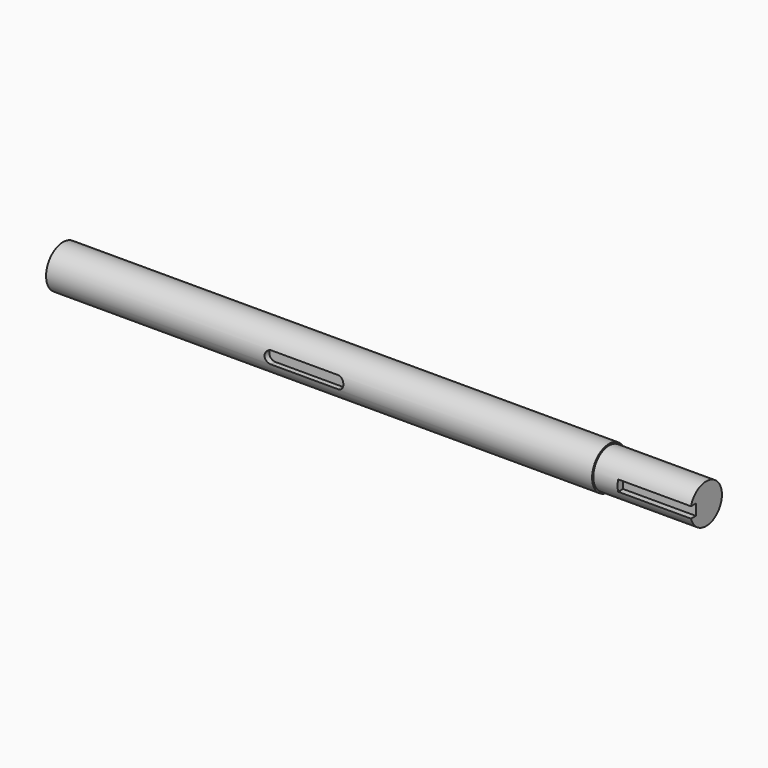
from build123d import *

# Parameters (mm, degrees)
F3_DEPTH = 120
F6_DEPTH = 10
F7_R     = 3
F8_DEPTH = 30


with BuildPart() as f1:
    # F0 (on Front) → F1 (revolve)
    with BuildSketch(Plane.XZ):
        Polygon((236.6450538874, -62.5779533936), (-663.3549461126, -62.5779533936), (-663.3549461126, -97.5779533936), (396.6450538874, -97.5779533936), (396.6450538874, -65.0779533936), (236.6450538874, -65.0779533936), align=None)
    revolve(axis=Axis((-133.3549461126, 0, -97.5779533936), (-1, 0, 0)))

    # F2 (on face) → F3 (cut)
    with BuildSketch(Plane.YZ.offset(396.6450538874)):
        with BuildLine():
            Line((-21.2289929393, -88.5779533936), (-31.2289929393, -88.5779533936))
            ThreePointArc((-31.2289929393, -88.5779533936), (-32.5, -97.5779533936), (-31.2289929393, -106.5779533936))
            Line((-31.2289929393, -106.5779533936), (-21.2289929393, -106.5779533936))
            Line((-21.2289929393, -106.5779533936), (-21.2289929393, -88.5779533936))
        make_face()
    extrude(amount=-F3_DEPTH, mode=Mode.SUBTRACT)

    # F5 (on offset) → F6 (cut)
    with BuildSketch(Plane.XZ.offset(35)):
        with BuildLine():
            Line((-183.3549461126, -86.1021482944), (-293.3549461126, -86.1021482944))
            ThreePointArc((-293.3549461126, -86.1021482944), (-303.3549461126, -96.1021482944), (-293.3549461126, -106.1021482944))
            Line((-293.3549461126, -106.1021482944), (-183.3549461126, -106.1021482944))
            ThreePointArc((-183.3549461126, -106.1021482944), (-173.3549461126, -96.1021482944), (-183.3549461126, -86.1021482944))
        make_face()
    extrude(amount=-F6_DEPTH, mode=Mode.SUBTRACT)

    # F7 (on face) → F8 (cut)
    with BuildSketch(Plane(origin=(-663.3549461126, 0, 0), x_dir=(0, -1, 0), z_dir=(-1, 0, 0))):
        with Locations((0, -97.5779533936)):
            Circle(F7_R)
    extrude(amount=-F8_DEPTH, mode=Mode.SUBTRACT)


solid = f1.part
